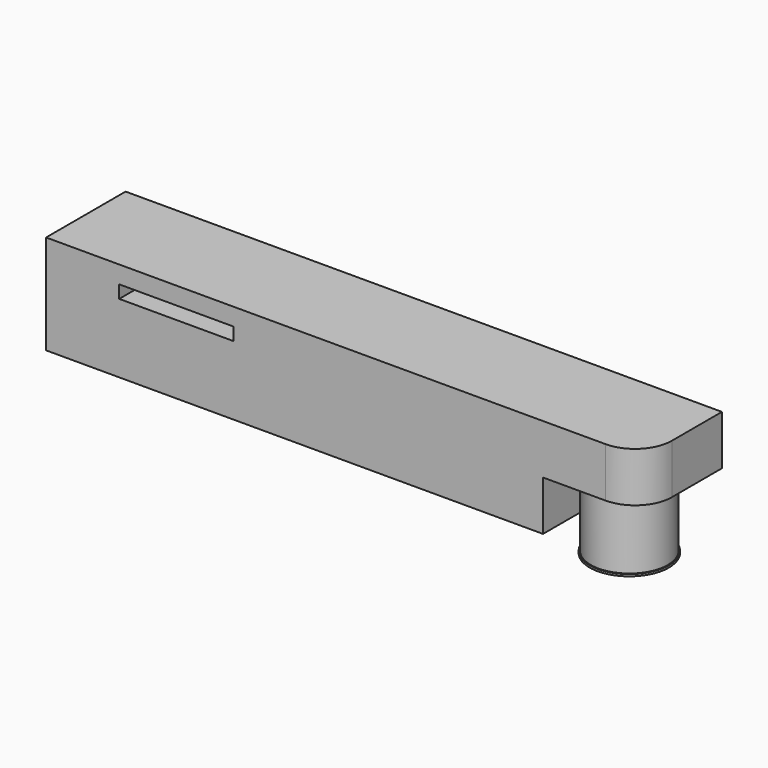
from build123d import *

# Parameters (mm, degrees)
F0_W       = 152.4
F0_H       = 25.4
F1_DEPTH   = 25.4
F2_W       = 25.4
F2_H       = 16.7976804078
F4_DEPTH   = 3.4544
F5_W       = 25.4
F5_H       = 12.7
F6_DEPTH   = 25.4
F8_W       = 29.1976537555
F8_H       = 3.2747276127
F9_DEPTH   = 25.4
F10_R      = 9.3821167461
F7_R       = 9.84758
F11_DEPTH  = 17.78
F12_R      = 10.1290006818
F12_R_2    = 9.84758
F11_FACE_R = 9.84758
F13_DEPTH  = 0.508
F14_W      = 5.08
F14_H      = 5.08
F15_DEPTH  = 12.7
F16_W      = 5.0729980469
F16_H      = 1.2744938934
F17_DEPTH  = 12.7


with BuildPart() as f1:
    # F0 (on Top) → F1 (new body)
    with BuildSketch(Plane.XY):
        Rectangle(F0_W, F0_H)
    extrude(amount=F1_DEPTH)

    # F2 (on face) → F4 (join)
    with BuildSketch(Plane.YZ.offset(76.2)):
        with Locations((0, 8.3988402039)):
            Rectangle(F2_W, F2_H)
    extrude(amount=-F4_DEPTH)

    # F5 (on face) → F6 (cut)
    with BuildSketch(Plane.YZ.offset(76.2)):
        with Locations((0, 6.35)):
            Rectangle(F5_W, F5_H)
    extrude(amount=-F6_DEPTH, mode=Mode.SUBTRACT)

    # F8 (on face) → F9 (cut)
    with BuildSketch(Plane.XZ.offset(12.7)):
        with Locations((-42.9124059156, 19.2979779094)):
            Rectangle(F8_W, F8_H)
    extrude(amount=-F9_DEPTH, mode=Mode.SUBTRACT)

    # F10
    f10_edges = [f1.edges().sort_by_distance(p)[0] for p in [
        (76.2, -12.7, 19.05),
    ]]
    fillet(f10_edges, radius=F10_R)

    # F7 (on face) → F11 (join)
    with BuildSketch(Plane(origin=(0, 0, 12.7), x_dir=(1, 0, 0), z_dir=(0, 0, -1))):
        with Locations((62.6917358843, 0)):
            Circle(F7_R)
    extrude(amount=F11_DEPTH)

    # F12 (on face) + F11_face (on face) → F13 (join)
    with BuildSketch(Plane(origin=(0, 0, -5.08), x_dir=(1, 0, 0), z_dir=(0, 0, -1))):
        with Locations((62.6917358843, 0)):
            Circle(F12_R)
        with Locations((62.6917358843, 0)):
            Circle(F12_R_2, mode=Mode.SUBTRACT)
        with Locations((62.6917358843, 0)):
            Circle(F12_R_2)
    with BuildSketch(Plane(origin=(62.6917358843, 0, -5.08), x_dir=(1, 0, 0), z_dir=(0, 0, -1))):
        Circle(F11_FACE_R)
    extrude(amount=F13_DEPTH)

    # F14 (on face) → F15 (cut)
    with BuildSketch(Plane(origin=(-76.2, 0, 0), x_dir=(0, -1, 0), z_dir=(-1, 0, 0))):
        with Locations((0, 12.7)):
            Rectangle(F14_W, F14_H)
    extrude(amount=-F15_DEPTH, mode=Mode.SUBTRACT)

    # F16 (on face) → F17 (cut)
    with BuildSketch(Plane.XZ.offset(-2.54)):
        with Locations((-66.0364990234, 14.6027530533)):
            Rectangle(F16_W, F16_H)
    extrude(amount=-F17_DEPTH, mode=Mode.SUBTRACT)


solid = f1.part
